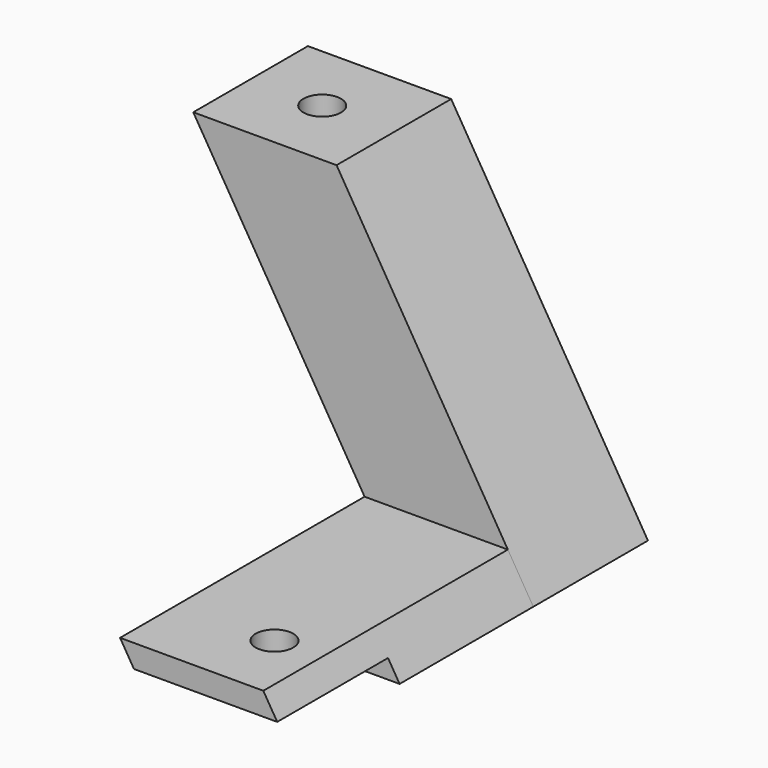
from build123d import *

# Parameters (mm, degrees)
F1_DEPTH = 19.05
F3_DEPTH = 40.64
F4_R     = 2.496566
F5_DEPTH = 12.7
F7_DEPTH = 43.181
F9_DEPTH = 18.415


with BuildPart() as f1:
    # F0 (on Front) → F1 (new body)
    with BuildSketch(Plane.XZ):
        Polygon((19.05, 43.18), (0, 43.18), (26.162, 0), (35.687, 0), (45.212, 0), align=None)
    extrude(amount=F1_DEPTH)

    # F2 (on face) → F3 (join)
    with BuildSketch(Plane.XZ.offset(19.05)):
        Polygon((41.8263294118, 5.588), (22.7763294118, 5.588), (26.162, 0), (45.212, 0), align=None)
    extrude(amount=F3_DEPTH)

    # F4 (on face) → F5 (cut)
    with BuildSketch(Plane.XY.offset(43.18)):
        with Locations((9.525, -9.525)):
            Circle(F4_R)
    extrude(amount=-F5_DEPTH, mode=Mode.SUBTRACT)

    # F6 (on face) → F7 (cut, through all)
    with BuildSketch(Plane(origin=(0, 0, 0), x_dir=(1, 0, 0), z_dir=(0, 0, -1))):
        with BuildLine():
            ThreePointArc((38.186995, 50.165), (37.4547634174, 51.9327634174), (35.687, 52.664995))
            ThreePointArc((35.687, 52.664995), (33.9192365826, 48.3972365826), (38.186995, 50.165))
        make_face()
    extrude(amount=-F7_DEPTH, mode=Mode.SUBTRACT)

    # F8 (on face) → F9 (cut)
    with BuildSketch(Plane.XZ.offset(59.69)):
        Polygon((43.6730588235, 2.54), (24.6230588235, 2.54), (26.162, 0), (45.212, 0), align=None)
    extrude(amount=-F9_DEPTH, mode=Mode.SUBTRACT)


solid = f1.part
